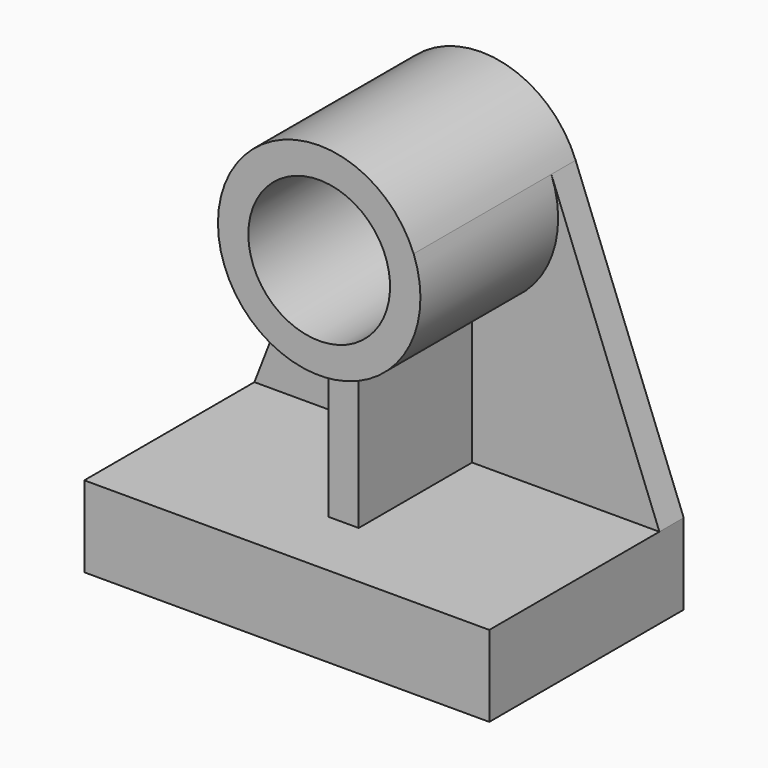
from build123d import *

# Parameters (mm, degrees)
F0_W     = 254
F0_H     = 50.8
F1_DEPTH = 152.4
F3_DEPTH = 107.95
F2_R     = 44.45
F4_DEPTH = 127
F5_DEPTH = 19.05


with BuildPart() as f1:
    # F0 (on Front) → F1 (new body)
    with BuildSketch(Plane.XZ):
        with Locations((127, -25.4)):
            Rectangle(F0_W, F0_H)
    extrude(amount=-F1_DEPTH)

    # F2 (on face) → F3 (join)
    with BuildSketch(Plane(origin=(0, 152.4, 0), x_dir=(-1, 0, 0), z_dir=(0, 1, 0))):
        with BuildLine():
            Line((-117.475, 0), (-117.475, 89.618439))
            ThreePointArc((-117.475, 89.618439), (-127, 88.9), (-136.525, 89.618439))
            Line((-136.525, 89.618439), (-136.525, 0))
            Line((-136.525, 0), (-117.475, 0))
        make_face()
    extrude(amount=-F3_DEPTH)

    # F2 (on face) → F4 (join)
    with BuildSketch(Plane(origin=(0, 152.4, 0), x_dir=(-1, 0, 0), z_dir=(0, 1, 0))):
        with BuildLine():
            ThreePointArc((-117.475, 89.618439), (-78.848741, 111.003065), (-63.5, 152.4))
            ThreePointArc((-63.5, 152.4), (-64.5772, 164.046632), (-67.772253, 175.298122))
            ThreePointArc((-67.772253, 175.298122), (-127, 215.9), (-186.227747, 175.298122))
            ThreePointArc((-186.227747, 175.298122), (-181.927107, 120.536809), (-136.525, 89.618439))
            ThreePointArc((-136.525, 89.618439), (-127, 88.9), (-117.475, 89.618439))
        make_face()
        with Locations((-127, 152.4)):
            Circle(F2_R, mode=Mode.SUBTRACT)
    extrude(amount=-F4_DEPTH)

    # F2 (on face) → F5 (join)
    with BuildSketch(Plane(origin=(0, 152.4, 0), x_dir=(-1, 0, 0), z_dir=(0, 1, 0))):
        with BuildLine():
            ThreePointArc((-136.525, 89.618439), (-181.927107, 120.536809), (-186.227747, 175.298122))
            Line((-186.227747, 175.298122), (-254, 0))
            Line((-254, 0), (-136.525, 0))
            Line((-136.525, 0), (-136.525, 89.618439))
        make_face()
        with BuildLine():
            ThreePointArc((-67.772253, 175.298122), (-64.5772, 164.046632), (-63.5, 152.4))
            ThreePointArc((-63.5, 152.4), (-78.848741, 111.003065), (-117.475, 89.618439))
            Line((-117.475, 89.618439), (-117.475, 0))
            Line((-117.475, 0), (0, 0))
            Line((0, 0), (-67.772253, 175.298122))
        make_face()
    extrude(amount=-F5_DEPTH)


solid = f1.part
